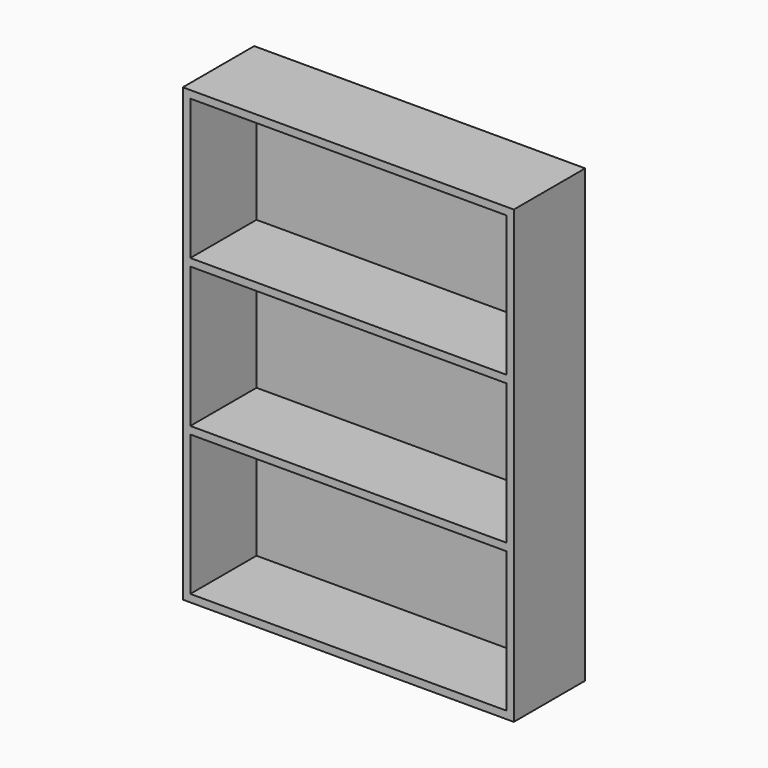
from build123d import *

# Parameters (mm, degrees)
F0_W     = 660.4
F0_H     = 178
F1_DEPTH = 900
F2_W     = 630.4
F2_H     = 280
F3_DEPTH = 165


with BuildPart() as f1:
    # F0 (on Top) → F1 (new body)
    with BuildSketch(Plane.XY):
        Rectangle(F0_W, F0_H)
    extrude(amount=F1_DEPTH)

    # F2 (on face) → F3 (cut)
    with BuildSketch(Plane.XZ.offset(89)):
        with Locations((0, 745)):
            Rectangle(F2_W, F2_H)
        with Locations((0, 450)):
            Rectangle(F2_W, F2_H)
        with Locations((0, 155)):
            Rectangle(F2_W, F2_H)
    extrude(amount=-F3_DEPTH, mode=Mode.SUBTRACT)


solid = f1.part
